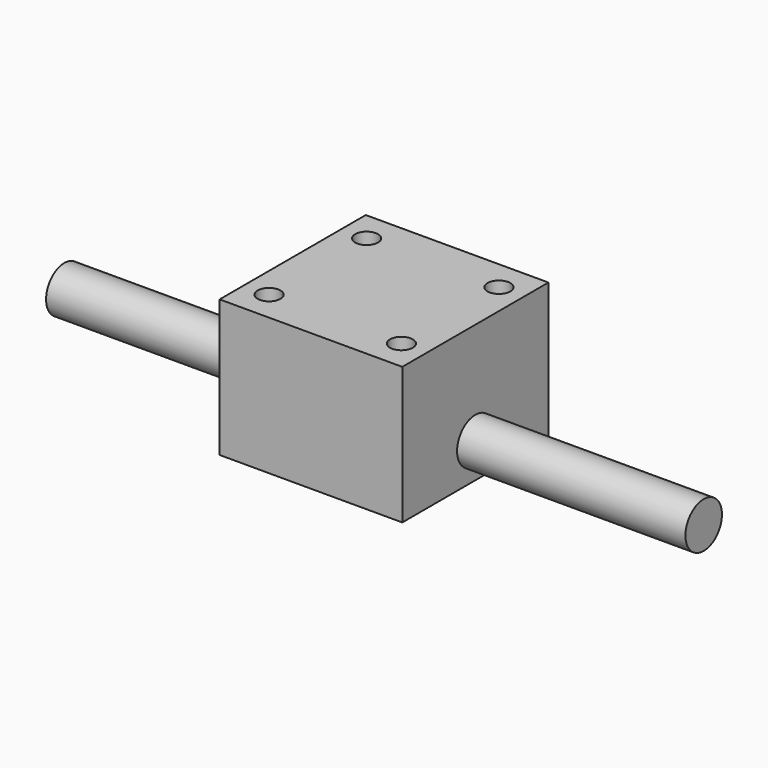
from build123d import *

# Parameters (mm, degrees)
F0_W     = 50.8
F0_H     = 50.8
F0_R     = 3.175
F1_DEPTH = 19.05
F2_R     = 6.35
F3_DEPTH = 63.5


with BuildPart() as f1:
    # F0 (on Top) → F1 (new body, symmetric)
    with BuildSketch(Plane.XY):
        Rectangle(F0_W, F0_H)
        with Locations((-18.400233, -16.953023)):
            Circle(F0_R, mode=Mode.SUBTRACT)
        with Locations((18.400233, -16.953023)):
            Circle(F0_R, mode=Mode.SUBTRACT)
        with Locations((-18.400233, 16.953023)):
            Circle(F0_R, mode=Mode.SUBTRACT)
        with Locations((18.400233, 16.953023)):
            Circle(F0_R, mode=Mode.SUBTRACT)
    extrude(amount=F1_DEPTH, both=True)

    # F2 (on face) → F3 (join)
    with BuildSketch(Plane(origin=(-25.4, 0, 0), x_dir=(0, -1, 0), z_dir=(-1, 0, 0))):
        with Locations((0, -9.345105)):
            Circle(F2_R)
    extrude(amount=F3_DEPTH)

    # F4: F1 across plane


with BuildPart() as f1_1:
    add(f1.part)
    add(f1.part.mirror(Plane.YZ))


solid = f1_1.part
